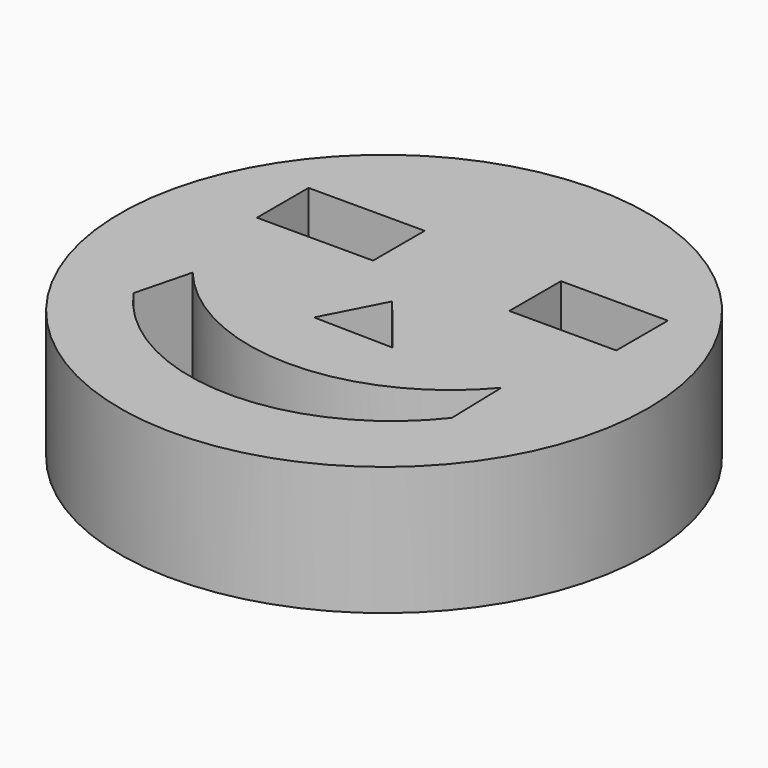
from build123d import *

# Parameters (mm, degrees)
F0_R     = 52.095354
F0_W     = 22.922941
F0_H     = 12.734967
F0_W_2   = 21.10912
F1_DEPTH = 25.4


with BuildPart() as f1:
    # F0 (on Top) → F1 (new body)
    with BuildSketch(Plane.XY):
        Circle(F0_R)
        with BuildLine():
            ThreePointArc((30.460902, -21.372762), (-2.177917, -36.688303), (-33.860181, -19.480965))
            Line((-33.860181, -19.480965), (-31.022485, -8.445484))
            ThreePointArc((-31.022485, -8.445484), (-0.512396, -22.950376), (30.145603, -8.760784))
            Line((30.145603, -8.760784), (30.460902, -21.372762))
        make_face(mode=Mode.SUBTRACT)
        Polygon((-7.05973, -8.445484), (-1.003418, 3.244657), (8.705245, -8.760784), align=None, mode=Mode.SUBTRACT)
        with Locations((-23.269858, 18.409045)):
            Rectangle(F0_W, F0_H, mode=Mode.SUBTRACT)
        with Locations((25.640542, 18.409045)):
            Rectangle(F0_W_2, F0_H, mode=Mode.SUBTRACT)
    extrude(amount=F1_DEPTH)


solid = f1.part
